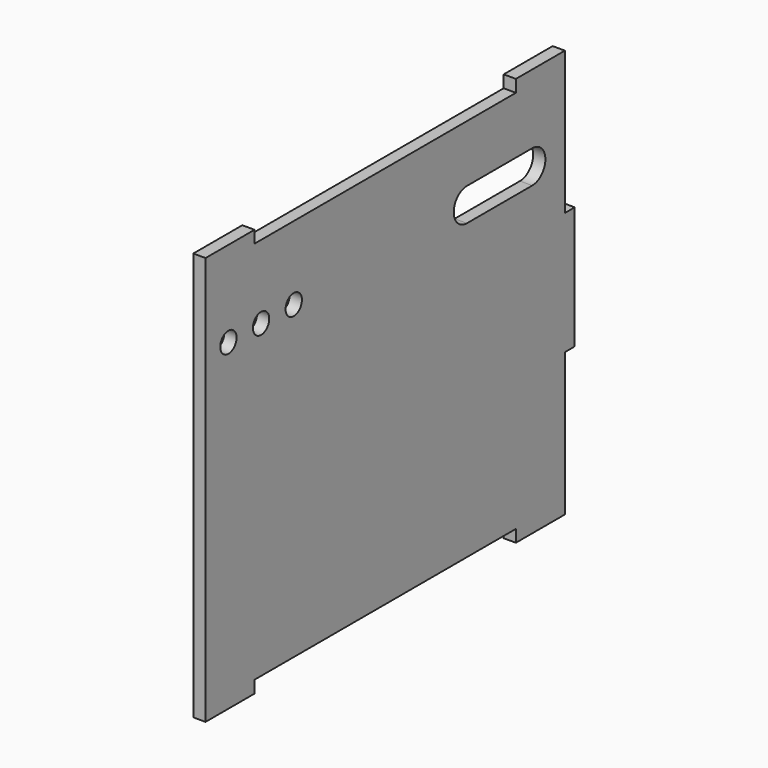
from build123d import *

# Parameters (mm, degrees)
F0_R     = 2.5
F1_DEPTH = 3


with BuildPart() as f1:
    # F0 (on Right) → F1 (new body)
    with BuildSketch(Plane.YZ):
        Polygon((30, -14), (30, 21), (15, 21), (15, 18), (-65, 18), (-65, 21), (-80, 21), (-80, -79), (-65, -79), (-65, -76), (15, -76), (15, -79), (30, -79), (30, -44), (33, -44), (33, -14), align=None)
        with Locations((-73, 0)):
            Circle(F0_R, mode=Mode.SUBTRACT)
        with Locations((-63, 0)):
            Circle(F0_R, mode=Mode.SUBTRACT)
        with Locations((-53, 0)):
            Circle(F0_R, mode=Mode.SUBTRACT)
        with BuildLine():
            Line((0, 4.025), (20, 4.025))
            ThreePointArc((20, 4.025), (24.025, 0), (20, -4.025))
            Line((20, -4.025), (0, -4.025))
            ThreePointArc((0, -4.025), (-4.025, 0), (0, 4.025))
        make_face(mode=Mode.SUBTRACT)
    extrude(amount=F1_DEPTH)


solid = f1.part
